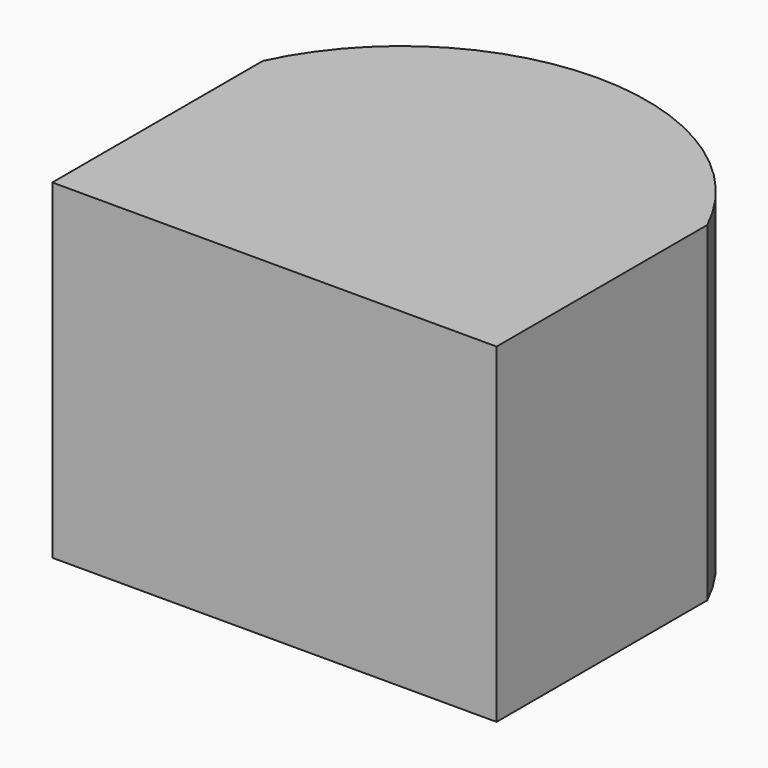
from build123d import *

# Parameters (mm, degrees)
F0_W     = 85.376024
F0_H     = 50.613224
F1_DEPTH = 63.5


with BuildPart() as f1:
    # F0 (on Top) → F1 (new body)
    with BuildSketch(Plane.XY):
        Rectangle(F0_W, F0_H)
        with BuildLine():
            Line((-42.688012, 25.306612), (42.688012, 25.306612))
            ThreePointArc((42.688012, 25.306612), (0, 52.359808), (-42.688012, 25.306612))
        make_face()
    extrude(amount=F1_DEPTH)


solid = f1.part
